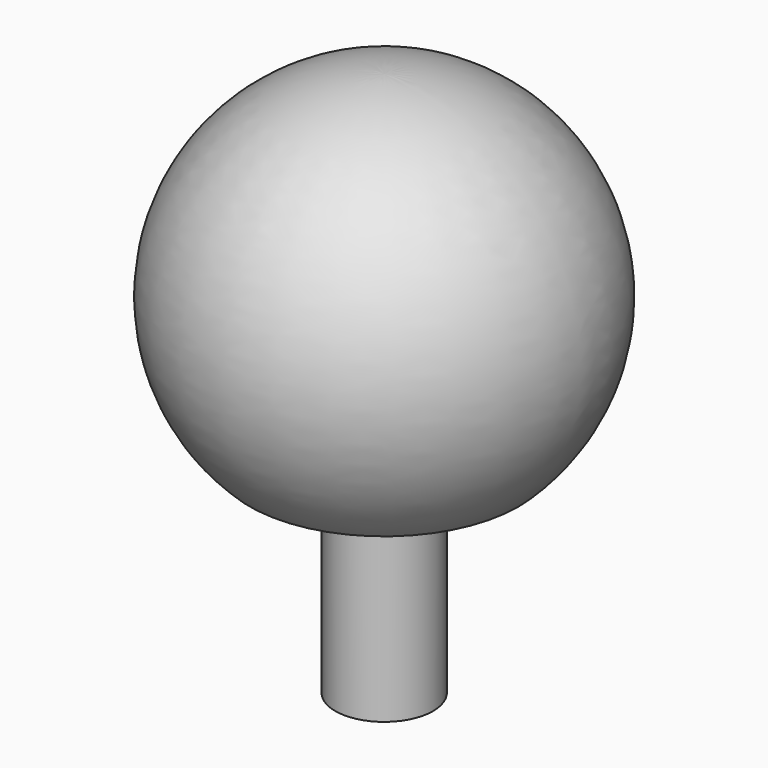
from build123d import *

# Parameters (mm, degrees)
F2_R     = 5.885399
F3_DEPTH = 25


with BuildPart() as f1:
    # F0 (on Front) → F1 (revolve)
    with BuildSketch(Plane.XZ):
        with BuildLine():
            ThreePointArc((16.183983, -17.014008), (21.805026, 8.714276), (0, 23.481861))
            Line((0, 23.481861), (0, -17.014008))
            Line((0, -17.014008), (16.183983, -17.014008))
        make_face()
    revolve(axis=Axis((0, 0, 0), (0, 0, -1)))

    # F2 (on face) → F3 (join)
    with BuildSketch(Plane(origin=(0, 0, -17.014008), x_dir=(1, 0, 0), z_dir=(0, 0, -1))):
        Circle(F2_R)
    extrude(amount=F3_DEPTH)


solid = f1.part
